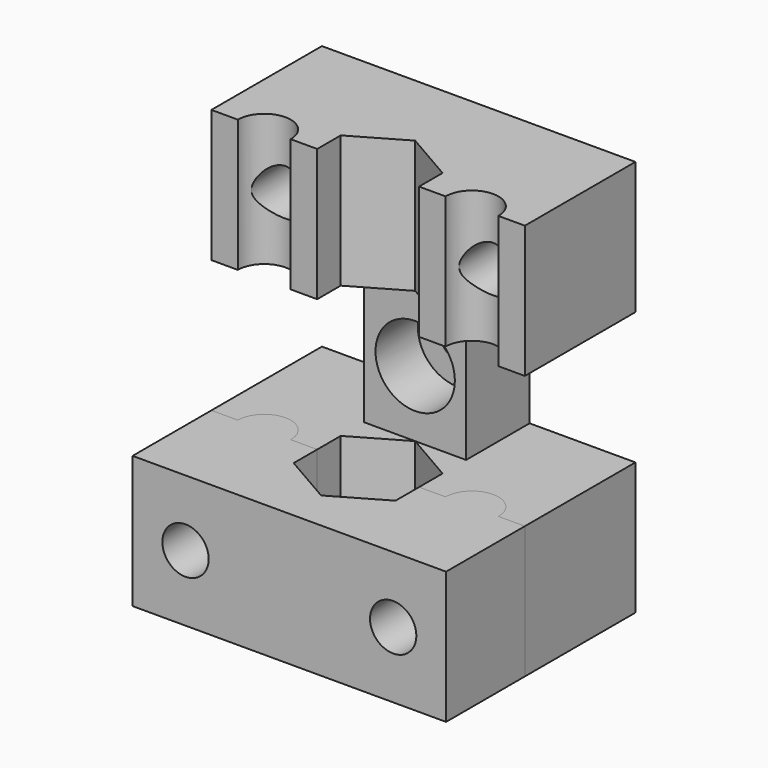
from build123d import *

# Parameters (mm, degrees)
F1_DEPTH  = 30
F2_W      = 8
F2_H      = 10
F3_DEPTH  = 10.4455970728
F4_W      = 7.7
F4_H      = 10
F5_DEPTH  = 4.4455970728
F6_R      = 1.25
F7_DEPTH  = 6
F8_R      = 3
F9_DEPTH  = 4
F11_DEPTH = 3
F13_DEPTH = 10
F12_R     = 1.75
F14_DEPTH = 17.8911941455


with BuildPart() as f1:
    # F0 (on Top) → F1 (new body)
    with BuildSketch(Plane.XY):
        with BuildLine():
            Line((0, 4.4455970728), (3.85, 2.2227985364))
            Line((3.85, 2.2227985364), (3.85, 0))
            Line((3.85, 0), (5.85, 0))
            ThreePointArc((5.85, 0), (7.85, 2), (9.85, 0))
            Line((9.85, 0), (11.85, 0))
            Line((11.85, 0), (11.85, 10.4455970728))
            Line((11.85, 10.4455970728), (0, 10.4455970728))
            Line((0, 10.4455970728), (-11.85, 10.4455970728))
            Line((-11.85, 10.4455970728), (-11.85, 0))
            Line((-11.85, 0), (-9.85, 0))
            ThreePointArc((-9.85, 0), (-7.85, 2), (-5.85, 0))
            Line((-5.85, 0), (-3.85, 0))
            Line((-3.85, 0), (-3.85, 2.2227985364))
            Line((-3.85, 2.2227985364), (0, 4.4455970728))
        make_face()
    extrude(amount=F1_DEPTH)

    # F2 (on face) → F3 (cut, through all)
    with BuildSketch(Plane.XZ):
        with Locations((-7.85, 15)):
            Rectangle(F2_W, F2_H)
        with Locations((7.85, 15)):
            Rectangle(F2_W, F2_H)
    extrude(amount=-F3_DEPTH, mode=Mode.SUBTRACT)

    # F4 (on face) → F5 (cut, through all)
    with BuildSketch(Plane.XZ):
        with Locations((0, 15)):
            Rectangle(F4_W, F4_H)
    extrude(amount=-F5_DEPTH, mode=Mode.SUBTRACT)

    # F6 (on face) → F7 (cut, through all)
    with BuildSketch(Plane.XZ.offset(-4.4455970728)):
        with Locations((0, 15)):
            Circle(F6_R)
    extrude(amount=-F7_DEPTH, mode=Mode.SUBTRACT)

    # F8 (on face) → F9 (cut)
    with BuildSketch(Plane.XZ.offset(-4.4455970728)):
        with Locations((0, 15)):
            Circle(F8_R)
    extrude(amount=-F9_DEPTH, mode=Mode.SUBTRACT)

    # F10 (on face) → F11 (cut)
    with BuildSketch(Plane(origin=(0, 10.4455970728, 0), x_dir=(-1, 0, 0), z_dir=(0, 1, 0))):
        Polygon((-4.6, 23.1236116251), (-4.6, 26.8763883749), (-7.85, 28.7527767497), (-11.1, 26.8763883749), (-11.1, 23.1236116251), (-7.85, 21.2472232503), align=None)
        Polygon((11.1, 23.1236116251), (11.1, 26.8763883749), (7.85, 28.7527767497), (4.6, 26.8763883749), (4.6, 23.1236116251), (7.85, 21.2472232503), align=None)
        Polygon((11.1, 3.1236116251), (11.1, 6.8763883749), (7.85, 8.7527767497), (4.6, 6.8763883749), (4.6, 3.1236116251), (7.85, 1.2472232503), align=None)
        Polygon((-4.6, 6.8763883749), (-7.85, 8.7527767497), (-11.1, 6.8763883749), (-11.1, 3.1236116251), (-7.85, 1.2472232503), (-4.6, 3.1236116251), align=None)
    extrude(amount=-F11_DEPTH, mode=Mode.SUBTRACT)


with BuildPart() as f13:
    # F0 (on Top) → F13 (new body, through all)
    with BuildSketch(Plane.XY):
        with BuildLine():
            Line((5.85, 0), (3.85, 0))
            Line((3.85, 0), (3.85, -2.2227985364))
            Line((3.85, -2.2227985364), (0, -4.4455970728))
            Line((0, -4.4455970728), (-3.85, -2.2227985364))
            Line((-3.85, -2.2227985364), (-3.85, 0))
            Line((-3.85, 0), (-5.85, 0))
            ThreePointArc((-5.85, 0), (-7.85, 2), (-9.85, 0))
            Line((-9.85, 0), (-11.85, 0))
            Line((-11.85, 0), (-11.85, -7.4455970728))
            Line((-11.85, -7.4455970728), (0, -7.4455970728))
            Line((0, -7.4455970728), (11.85, -7.4455970728))
            Line((11.85, -7.4455970728), (11.85, 0))
            Line((11.85, 0), (9.85, 0))
            ThreePointArc((9.85, 0), (7.85, 2), (5.85, 0))
        make_face()
    extrude(amount=F13_DEPTH)


with BuildPart() as f14_tool:
    # F12 (on face) → F14 (new body, through all)
    with BuildSketch(Plane(origin=(0, 10.4455970728, 0), x_dir=(-1, 0, 0), z_dir=(0, 1, 0))):
        with Locations((-7.85, 25)):
            Circle(F12_R)
        with Locations((7.85, 25)):
            Circle(F12_R)
        with Locations((7.85, 5)):
            Circle(F12_R)
        with Locations((-7.85, 5)):
            Circle(F12_R)
    extrude(amount=-F14_DEPTH)


with BuildPart() as f1_1:
    add(f1.part)

    # F14: cut by f14_tool
    add(f14_tool.part, mode=Mode.SUBTRACT)


with BuildPart() as f13_1:
    add(f13.part)

    # F14: cut by f14_tool
    add(f14_tool.part, mode=Mode.SUBTRACT)


solid = Compound([f1_1.part, f13_1.part])
